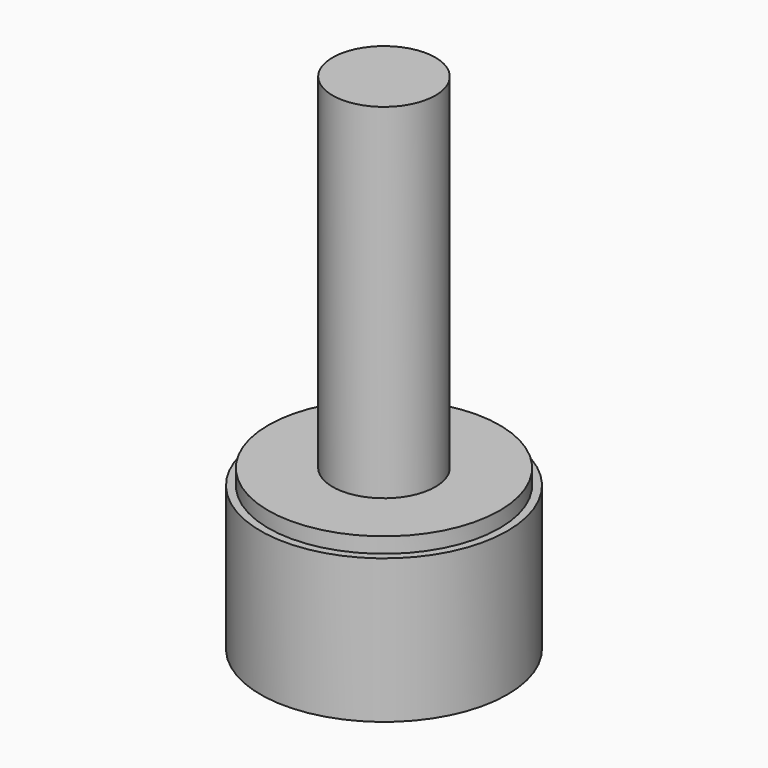
from build123d import *

# Parameters (mm, degrees)
F0_R     = 22.5
F1_DEPTH = 3
F2_R     = 10
F3_DEPTH = 70
F4_R     = 24
F5_DEPTH = 28


with BuildPart() as f1:
    # F0 (on Top) → F1 (new body)
    with BuildSketch(Plane.XY):
        Circle(F0_R)
    extrude(amount=F1_DEPTH)

    # F2 (on Top) → F3 (join)
    with BuildSketch(Plane.XY):
        Circle(F2_R)
    extrude(amount=F3_DEPTH)

    # F4 (on face) → F5 (join)
    with BuildSketch(Plane(origin=(0, 0, 0), x_dir=(1, 0, 0), z_dir=(0, 0, -1))):
        Circle(F4_R)
    extrude(amount=F5_DEPTH)


solid = f1.part
